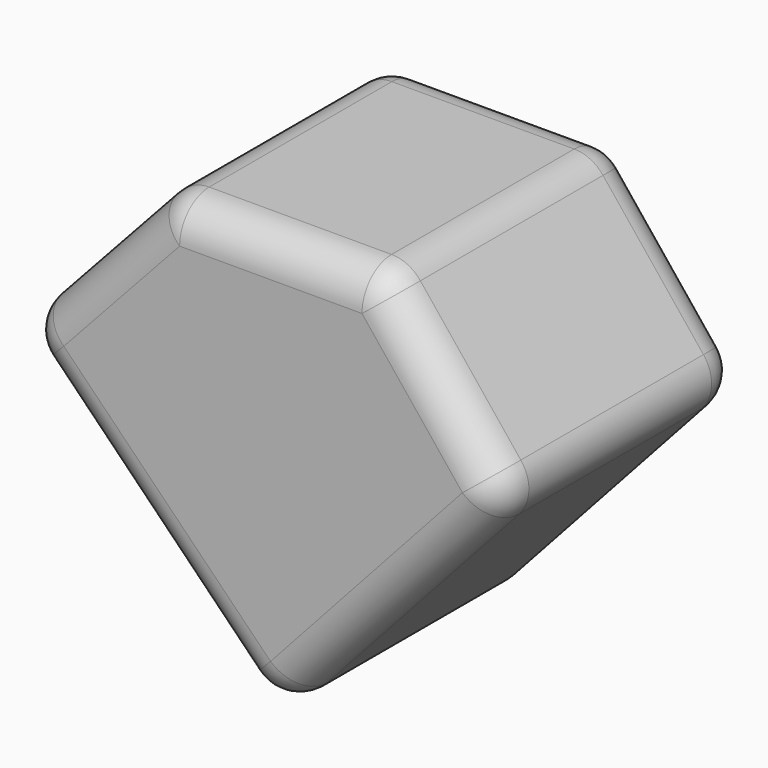
from build123d import *

# Parameters (mm, degrees)
F1_DEPTH = 40.894
F2_R     = 5


with BuildPart() as f1:
    # F0 (on Front) → F1 (new body)
    with BuildSketch(Plane.XZ):
        Polygon((22.479013, 22.134189), (2.098839, 0), (37.110936, -35.60964), (69.510184, 0), (51.742852, 22.134189), align=None)
    extrude(amount=F1_DEPTH)

    # F2
    f2_edges = [f1.edges().sort_by_distance(p)[0] for p in [
        (69.510184, -20.447, 0),
        (51.742852, -20.447, 22.134189),
        (60.626518, 0, 11.067094),
        (60.626518, -40.894, 11.067094),
        (12.288926, -40.894, 11.067094),
        (19.604888, -40.894, -17.80482),
        (53.31056, -40.894, -17.80482),
        (37.110932, -40.894, 22.134189),
        (22.479013, -20.447, 22.134189),
        (37.110932, 0, 22.134189),
        (2.098839, -20.447, 0),
        (12.288926, 0, 11.067094),
        (37.110936, -20.447, -35.60964),
        (19.604888, 0, -17.80482),
        (53.31056, 0, -17.80482),
    ]]
    fillet(f2_edges, radius=F2_R)


solid = f1.part
